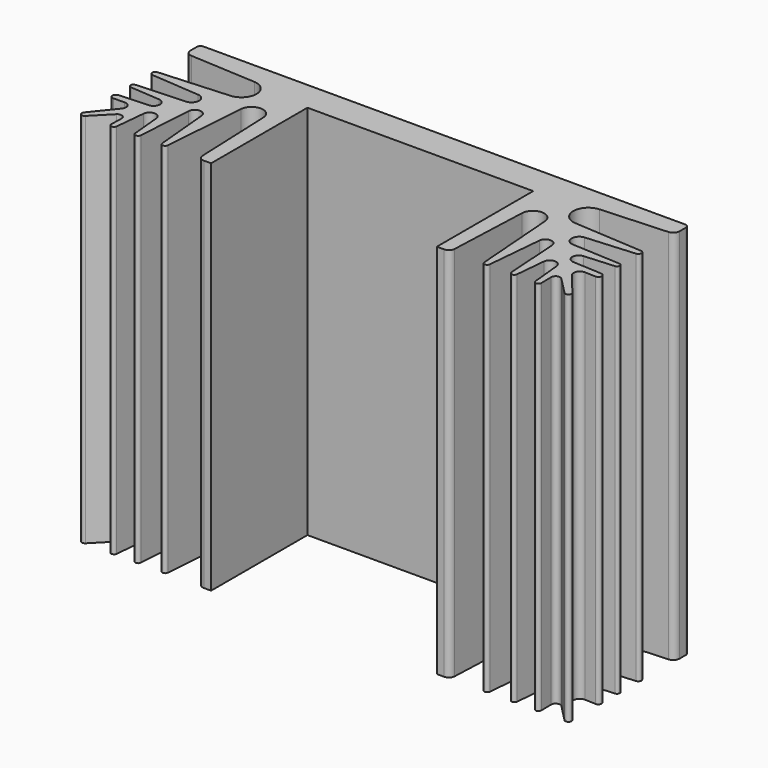
from build123d import *

# Parameters (mm, degrees)
PAD_DEPTH = 50


with BuildPart() as part:
    # Sketch → Pad (new body)
    with BuildSketch(Plane.XY):
        with BuildLine():
            Line((0, 0), (0, -4))
            Line((0, -4), (-15, -4))
            Line((-15, -4), (-15, -20))
            Line((-15, -20), (-15.962702, -20))
            ThreePointArc((-16.758832, -19.235543), (-16.514566, -19.777943), (-15.962702, -20))
            Line((-16.758832, -19.235543), (-17.191233, -8.587361))
            ThreePointArc((-17.191233, -8.587361), (-18.663554, -7.148457), (-20.185686, -8.534564))
            Line((-21.030971, -19.657951), (-20.185686, -8.534564))
            ThreePointArc((-21.76856, -19.663558), (-21.397187, -19.999989), (-21.030971, -19.657951))
            Line((-21.76856, -19.663558), (-22.443519, -12.270938))
            ThreePointArc((-22.443519, -12.270938), (-23.300533, -11.498289), (-24.138133, -12.291944))
            Line((-24.626417, -19.650386), (-24.138133, -12.291944))
            ThreePointArc((-25.372798, -19.660239), (-24.995058, -19.999967), (-24.626417, -19.650386))
            Line((-25.372798, -19.660239), (-25.743648, -15.669538))
            ThreePointArc((-25.743648, -15.669538), (-26.587631, -14.898227), (-27.435897, -15.664825))
            Line((-27.830084, -19.664747), (-27.435897, -15.664825))
            ThreePointArc((-28.571641, -19.621239), (-28.221771, -19.999362), (-27.830084, -19.664747))
            Line((-28.571641, -19.621239), (-28.540106, -17.959608))
            ThreePointArc((-28.540106, -17.959608), (-28.907829, -17.394963), (-29.568372, -17.528109))
            Line((-31.830105, -19.834306), (-29.568372, -17.528109))
            ThreePointArc((-32.435415, -19.2943), (-32.390304, -19.852993), (-31.830105, -19.834306))
            Line((-32.435415, -19.2943), (-29.926108, -16.198984))
            ThreePointArc((-29.926108, -16.198984), (-29.834934, -15.3395), (-30.578403, -14.898728))
            Line((-32.030902, -14.952159), (-30.578403, -14.898728))
            ThreePointArc((-32.071041, -14.048146), (-32.499555, -14.52007), (-32.030902, -14.952159))
            Line((-32.071041, -14.048146), (-28.20584, -13.847076))
            ThreePointArc((-28.20584, -13.847076), (-27.40004, -13.006636), (-28.189047, -12.150411))
            Line((-32.160387, -11.864905), (-28.189047, -12.150411))
            ThreePointArc((-32.153271, -11.134653), (-32.499983, -11.496435), (-32.160387, -11.864905))
            Line((-32.153271, -11.134653), (-25.697743, -10.796857))
            ThreePointArc((-25.697743, -10.796857), (-24.750068, -9.810055), (-25.674128, -8.801106))
            Line((-32.119375, -8.310687), (-25.674128, -8.801106))
            ThreePointArc((-32.114723, -7.488986), (-32.499993, -7.897668), (-32.119375, -8.310687))
            Line((-32.114723, -7.488986), (-22.920848, -6.894049))
            ThreePointArc((-22.920848, -6.894049), (-21.050015, -4.89004), (-22.937185, -2.901408))
            Line((-31.68374, -2.407258), (-22.937185, -2.901408))
            ThreePointArc((-32.5, -1.543581), (-32.263646, -2.137765), (-31.68374, -2.407258))
            Line((-32.5, -1.543581), (-32.5, -0.517038))
            ThreePointArc((-31.982962, 0), (-32.348563, -0.151437), (-32.5, -0.517038))
            Line((-31.982962, 0), (0, 0))
        make_face()
    pad = extrude(amount=PAD_DEPTH)

    # Mirrored: Pad across Sketch V_Axis
    add(pad.mirror(Plane(origin=(0, 0, 0), x_dir=(0, 0, 1), z_dir=(1, 0, 0))))


solid = part.part
